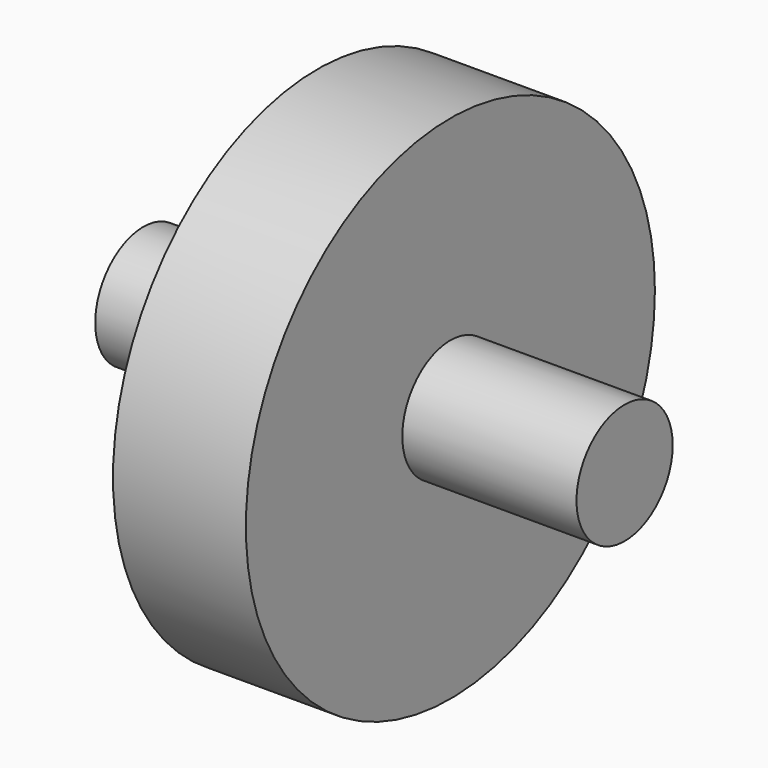
from build123d import *

# Parameters (mm, degrees)
F0_R     = 81
F1_DEPTH = 21.05
F2_R     = 19.05
F3_DEPTH = 76.25


with BuildPart() as f1:
    # F0 (on Right) → F1 (new body, symmetric)
    with BuildSketch(Plane.YZ):
        Circle(F0_R)
    extrude(amount=F1_DEPTH, both=True)

    # F2 (on Right) → F3 (join, symmetric)
    with BuildSketch(Plane.YZ):
        Circle(F2_R)
    extrude(amount=F3_DEPTH, both=True)


solid = f1.part
